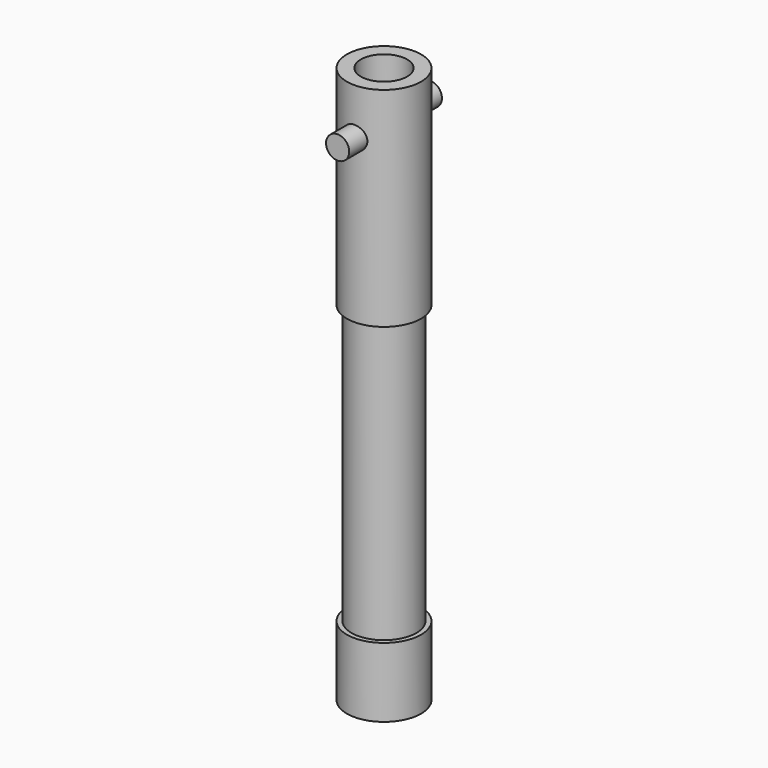
from build123d import *

# Parameters (mm, degrees)
F2_R     = 2.5
F3_DEPTH = 12.5


with BuildPart() as f1:
    # F0 (on Front) → F1 (revolve)
    with BuildSketch(Plane.XZ):
        Polygon((8, 51), (5, 51), (5, -69), (8, -69), (8, -54), (7, -54), (7, 6), (8, 6), align=None)
    revolve(axis=Axis((0, 0, -22.5128643215), (0, 0, -1)))

    # F2 (on Front) → F3 (join, symmetric)
    with BuildSketch(Plane.XZ):
        with Locations((0, 41)):
            Circle(F2_R)
    extrude(amount=F3_DEPTH, both=True)


solid = f1.part
